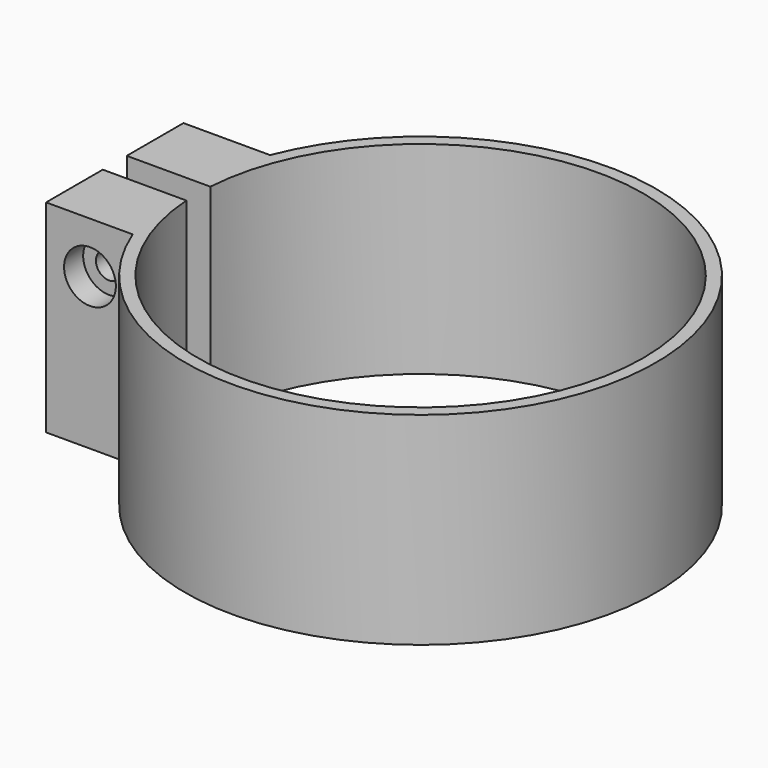
from build123d import *

# Parameters (mm, degrees)
F1_DEPTH       = 25.4
F3_D           = 3.3
F3_CBORE_D     = 6.5
F3_CBORE_DEPTH = 3
F5_DEPTH       = 5


with BuildPart() as f1:
    # F0 (on Top) → F1 (new body)
    with BuildSketch(Plane.XY):
        with BuildLine():
            ThreePointArc((-27.8767053979, 1.8796), (27.94, 0), (-27.8767053979, -1.8796))
            Line((-27.8767053979, -1.8796), (-29.4676154463, -1.8796))
            Line((-29.4676154463, -1.8796), (-38.3576154463, -1.8796))
            Line((-38.3576154463, -1.8796), (-38.3576154463, -10.7696))
            Line((-38.3576154463, -10.7696), (-29.4676154463, -10.7696))
            Line((-29.4676154463, -10.7696), (-27.4934350726, -10.7696))
            ThreePointArc((-27.4934350726, -10.7696), (29.5275, 0), (-27.4934350726, 10.7696))
            Line((-27.4934350726, 10.7696), (-29.4676154463, 10.7696))
            Line((-29.4676154463, 10.7696), (-38.3576154463, 10.7696))
            Line((-38.3576154463, 10.7696), (-38.3576154463, 1.8796))
            Line((-38.3576154463, 1.8796), (-29.4676154463, 1.8796))
            Line((-29.4676154463, 1.8796), (-27.8767053979, 1.8796))
        make_face()
    extrude(amount=F1_DEPTH)

    # F3 (through all)
    with Locations(Plane.XZ.offset(10.7696)):
        with Locations((-32.8522585332, 18.9988464117)):
            CounterBoreHole(F3_D / 2, F3_CBORE_D / 2, F3_CBORE_DEPTH)

    # F4 (on face) → F5 (cut)
    with BuildSketch(Plane(origin=(0, 10.7696, 0), x_dir=(-1, 0, 0), z_dir=(0, 1, 0))):
        Polygon((34.6081861546, 15.6860156038), (36.599217982, 18.8631089351), (34.8432903606, 22.175939743), (31.0963309118, 22.3116772196), (29.1052990845, 19.1345838883), (30.8612267059, 15.8217530804), align=None)
    extrude(amount=-F5_DEPTH, mode=Mode.SUBTRACT)


solid = f1.part
